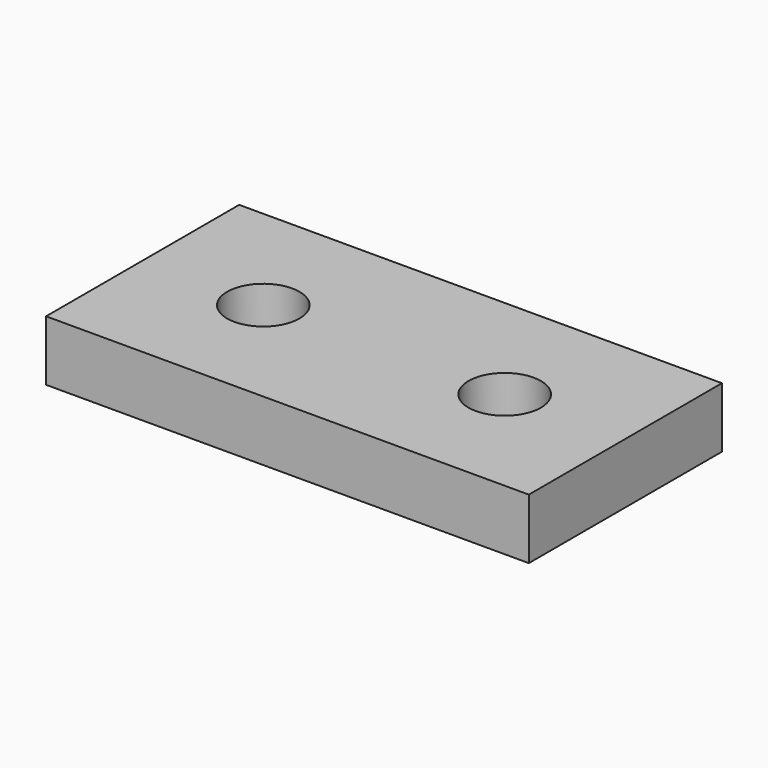
from build123d import *

# Parameters (mm, degrees)
F0_W     = 50.8
F0_H     = 25.4
F1_DEPTH = 3.175
F2_R     = 3.81
F3_DEPTH = 25.4


with BuildPart() as f1:
    # F0 (on Top) → F1 (new body, symmetric)
    with BuildSketch(Plane.XY):
        Rectangle(F0_W, F0_H)
    extrude(amount=F1_DEPTH, both=True)

    # F2 (on face) → F3 (cut)
    with BuildSketch(Plane.XY.offset(3.175)):
        with Locations((-12.7, 0)):
            Circle(F2_R)
        with Locations((12.7, 0)):
            Circle(F2_R)
    extrude(amount=-F3_DEPTH, mode=Mode.SUBTRACT)


solid = f1.part
